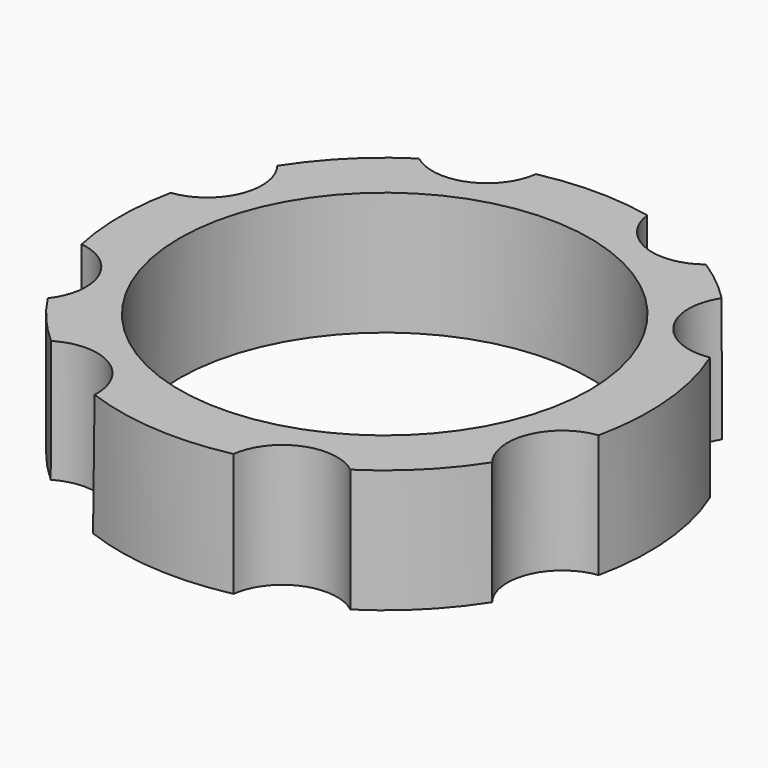
from build123d import *

# Parameters (mm, degrees)
CYLINDER446_R               = 8
CYLINDER446_DEPTH           = 25
CYLINDER447_R               = 8
CYLINDER447_DEPTH           = 25
CYLINDER447_PLACEMENT_ANGLE = 225
CYLINDER448_R               = 8
CYLINDER448_DEPTH           = 25
CYLINDER449_R               = 8
CYLINDER449_DEPTH           = 25
CYLINDER449_ROLL_ANGLE      = -0.500355
CYLINDER449_PITCH_ANGLE     = 0.967193
CYLINDER449_PLACEMENT_ANGLE = 144.93646
CYLINDER450_R               = 8
CYLINDER450_DEPTH           = 25
CYLINDER451_R               = 8
CYLINDER451_DEPTH           = 25
CYLINDER451_PLACEMENT_ANGLE = 45
CYLINDER444_R               = 8
CYLINDER444_DEPTH           = 25
CYLINDER444_ROLL_ANGLE      = 0.146073
CYLINDER444_PITCH_ANGLE     = 1.079101
CYLINDER444_PLACEMENT_ANGLE = -9.939308
CYLINDER445_R               = 8
CYLINDER445_DEPTH           = 25
CYLINDER445_PLACEMENT_ANGLE = 45
TUBE023_R                   = 38.65
TUBE023_R_2                 = 30
TUBE023_DEPTH               = 18


with BuildPart() as obj1:
    # Cylinder446 → Cylinder446 (new body)
    with BuildSketch(Plane(origin=(-38.798949, 16.072537, 43), x_dir=(0, -1, 0), z_dir=(0, 0, 1))):
        Circle(CYLINDER446_R)
    extrude(amount=CYLINDER446_DEPTH)


with BuildPart() as obj2:
    # Cylinder447 → Cylinder447 (new body)
    with BuildSketch(Plane.XY):
        Circle(CYLINDER447_R)
    extrude(amount=CYLINDER447_DEPTH)


with BuildPart() as obj2_1:
    # Cylinder447 placement: moved
    add(obj2.part.moved(Location((-16.07, 38.8, 43))).rotate(Axis((-16.07, 38.8, 43), (0, 0, 1)), CYLINDER447_PLACEMENT_ANGLE))


with BuildPart() as obj3:
    # Cylinder448 → Cylinder448 (new body)
    with BuildSketch(Plane(origin=(16.072537, 38.798949, 43), x_dir=(-1, 0, 0), z_dir=(0, 0, 1))):
        Circle(CYLINDER448_R)
    extrude(amount=CYLINDER448_DEPTH)


with BuildPart() as obj4:
    # Cylinder449 → Cylinder449 (new body)
    with BuildSketch(Plane.XY):
        Circle(CYLINDER449_R)
    extrude(amount=CYLINDER449_DEPTH)


with BuildPart() as obj4_1:
    # Cylinder449 roll: moved
    add(obj4.part.rotate(Axis((0, 0, 0), (1, 0, 0)), CYLINDER449_ROLL_ANGLE))


with BuildPart() as obj4_2:
    # Cylinder449 pitch: moved
    add(obj4_1.part.rotate(Axis((0, 0, 0), (0, 1, 0)), CYLINDER449_PITCH_ANGLE))


with BuildPart() as obj4_3:
    # Cylinder449 placement: moved
    add(obj4_2.part.moved(Location((34.627801, 22.637113, 43.602309))).rotate(Axis((34.627801, 22.637113, 43.602309), (0, 0, 1)), CYLINDER449_PLACEMENT_ANGLE))


with BuildPart() as obj5:
    # Cylinder450 → Cylinder450 (new body)
    with BuildSketch(Plane(origin=(38.798949, -16.072537, 43), x_dir=(0, 1, 0), z_dir=(0, 0, 1))):
        Circle(CYLINDER450_R)
    extrude(amount=CYLINDER450_DEPTH)


with BuildPart() as obj6:
    # Cylinder451 → Cylinder451 (new body)
    with BuildSketch(Plane.XY):
        Circle(CYLINDER451_R)
    extrude(amount=CYLINDER451_DEPTH)


with BuildPart() as obj6_1:
    # Cylinder451 placement: moved
    add(obj6.part.moved(Location((16.07, -38.8, 43))).rotate(Axis((16.07, -38.8, 43), (0, 0, 1)), CYLINDER451_PLACEMENT_ANGLE))


with BuildPart() as obj7:
    # Cylinder444 → Cylinder444 (new body)
    with BuildSketch(Plane.XY):
        Circle(CYLINDER444_R)
    extrude(amount=CYLINDER444_DEPTH)


with BuildPart() as obj7_1:
    # Cylinder444 roll: moved
    add(obj7.part.rotate(Axis((0, 0, 0), (1, 0, 0)), CYLINDER444_ROLL_ANGLE))


with BuildPart() as obj7_2:
    # Cylinder444 pitch: moved
    add(obj7_1.part.rotate(Axis((0, 0, 0), (0, 1, 0)), CYLINDER444_PITCH_ANGLE))


with BuildPart() as obj7_3:
    # Cylinder444 placement: moved
    add(obj7_2.part.moved(Location((-21.748471, -35.690226, 43.196026))).rotate(Axis((-21.748471, -35.690226, 43.196026), (0, 0, 1)), CYLINDER444_PLACEMENT_ANGLE))


with BuildPart() as compound325:
    # Cylinder445 → Cylinder445 (new body)
    with BuildSketch(Plane.XY):
        Circle(CYLINDER445_R)
    extrude(amount=CYLINDER445_DEPTH)


with BuildPart() as compound325_1:
    # Cylinder445 placement: moved
    add(compound325.part.moved(Location((-38.8, -16.07, 43))).rotate(Axis((-38.8, -16.07, 43), (0, 0, -1)), CYLINDER445_PLACEMENT_ANGLE))

    # Compound325: union obj1, obj2, obj3, obj4, obj5, obj6, obj7
    add(obj1.part)
    add(obj2_1.part)
    add(obj3.part)
    add(obj4_3.part)
    add(obj5.part)
    add(obj6_1.part)
    add(obj7_3.part)


with BuildPart() as compound325_2:
    # Compound325 placement: moved
    add(compound325_1.part.moved(Location((0, 0, 3))))


with BuildPart() as cut:
    # Tube023 → Tube023 (new body)
    with BuildSketch(Plane.XY.offset(48)):
        Circle(TUBE023_R)
        Circle(TUBE023_R_2, mode=Mode.SUBTRACT)
    extrude(amount=TUBE023_DEPTH)

    # Cut: cut Compound325
    add(compound325_2.part, mode=Mode.SUBTRACT)


solid = cut.part
